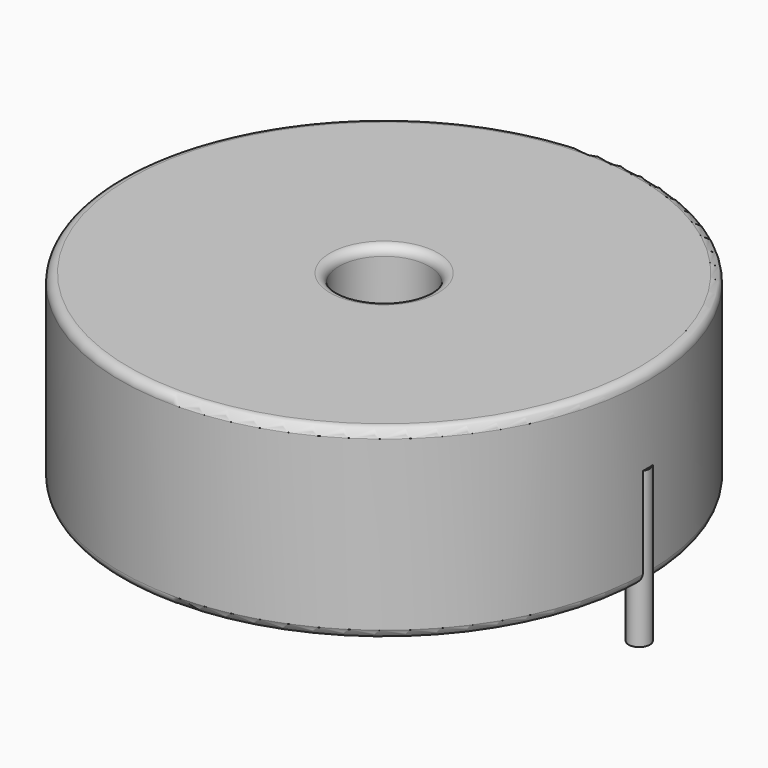
from build123d import *

# Parameters (mm, degrees)
SKETCH001_R       = 0.6
PAD001_DEPTH      = 5.25
PAD001_DEPTH_BACK = 3.5
SKETCH_R          = 14.9
SKETCH_R_2        = 2.55
PAD_DEPTH         = 10.5
FILLET_R          = 0.5


with BuildPart() as pad001:
    # Sketch001 → Pad001 (new body, two sides)
    with BuildSketch(Plane.XY.offset(0.5)) as pad001_sk:
        Circle(SKETCH001_R)
        with Locations((28.8, 0)):
            Circle(SKETCH001_R)
    extrude(amount=PAD001_DEPTH)
    extrude(pad001_sk.sketch, amount=-PAD001_DEPTH_BACK)


with BuildPart() as fillet_body:
    # Sketch → Pad (new body)
    with BuildSketch(Plane.XY.offset(0.1)):
        with Locations((14.4, 0)):
            Circle(SKETCH_R)
        with Locations((14.4, 0)):
            Circle(SKETCH_R_2, mode=Mode.SUBTRACT)
    extrude(amount=PAD_DEPTH)

    # Fillet
    fillet_edges = [fillet_body.edges().sort_by_distance(p)[0] for p in [
        (11.85, 0, 10.6),
        (-0.5, 0, 10.6),
        (-0.5, 0, 0.1),
    ]]
    fillet(fillet_edges, radius=FILLET_R)


solid = Compound([pad001.part, fillet_body.part])
